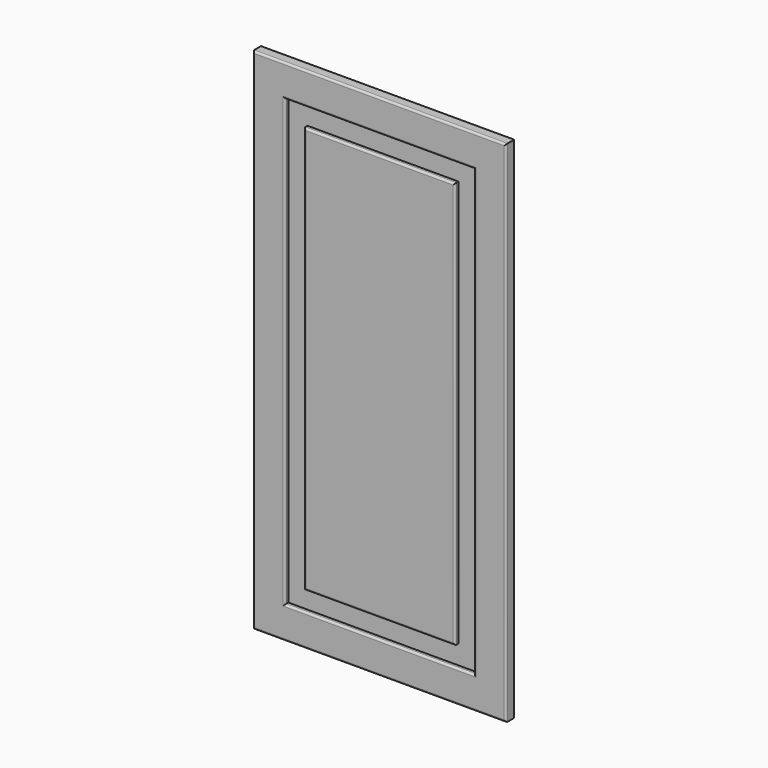
from build123d import *

# Parameters (mm, degrees)
F0_W      = 44.656470418
F0_H      = 33.8078811765
F1_DEPTH  = 16
F2_DEPTH  = 796
F3_DEPTH  = 196
F4_W      = 68.9578056335
F4_H      = 493.6993122101
F5_DEPTH  = 7
F6_DEPTH  = 9.7
F7_DEPTH  = 99.33
F8_DEPTH  = 99.33
F9_DEPTH  = 17.34
F10_DEPTH = 102.97
F11_W     = 35.2807044983
F11_H     = 492.0964837074
F12_DEPTH = 7
F13_DEPTH = 37.27
F14_DEPTH = 6.58
F15_DEPTH = 106.63
F16_DEPTH = 5.87
F17_DEPTH = 200
F18_DEPTH = 200
F19_DEPTH = 200
F20_R     = 3


with BuildPart() as f1:
    # F0 (on Front) → F1 (new body)
    with BuildSketch(Plane.XZ):
        with Locations((22.328235209, 16.9039405882)):
            Rectangle(F0_W, F0_H)
    extrude(amount=F1_DEPTH)

    # F2 (add): a face of the model
    f2_faces = [f1.faces().sort_by_distance(p)[0] for p in [
        (22.328235209, -8, 0),
    ]]
    extrude(f2_faces, amount=-F2_DEPTH)

    # F3 (add): a face of the model
    f3_faces = [f1.faces().sort_by_distance(p)[0] for p in [
        (0, -8, 398),
    ]]
    extrude(f3_faces, amount=-F3_DEPTH)

    # F4 (on face) → F5 (cut)
    with BuildSketch(Plane.XZ.offset(16)):
        with Locations((94.1769480705, 399.8196721077)):
            Rectangle(F4_W, F4_H)
    extrude(amount=-F5_DEPTH, mode=Mode.SUBTRACT)

    # F6 (cut): a face of the model
    f6_faces = [f1.faces().sort_by_distance(p)[0] for p in [
        (59.6980452538, -12.5, 399.8196721077),
    ]]
    extrude(f6_faces, amount=-F6_DEPTH, mode=Mode.SUBTRACT)

    # F7 (add): a face of the model
    f7_faces = [f1.faces().sort_by_distance(p)[0] for p in [
        (89.3269480705, -12.5, 646.6693282127),
    ]]
    extrude(f7_faces, amount=-F7_DEPTH)

    # F8 (cut): a face of the model
    f8_faces = [f1.faces().sort_by_distance(p)[0] for p in [
        (89.3269480705, -12.5, 646.6693282127),
    ]]
    extrude(f8_faces, amount=-F8_DEPTH, mode=Mode.SUBTRACT)

    # F9 (cut): a face of the model
    f9_faces = [f1.faces().sort_by_distance(p)[0] for p in [
        (128.6558508873, -12.5, 449.4846721077),
    ]]
    extrude(f9_faces, amount=-F9_DEPTH, mode=Mode.SUBTRACT)

    # F10 (cut): a face of the model
    f10_faces = [f1.faces().sort_by_distance(p)[0] for p in [
        (97.9969480705, -12.5, 152.9700160027),
    ]]
    extrude(f10_faces, amount=-F10_DEPTH, mode=Mode.SUBTRACT)

    # F11 (on face) → F12 (join)
    with BuildSketch(Plane.XZ.offset(9)):
        with Locations((91.7714834213, 432.6795041561)):
            Rectangle(F11_W, F11_H)
    extrude(amount=F12_DEPTH)

    # F13 (add): a face of the model
    f13_faces = [f1.faces().sort_by_distance(p)[0] for p in [
        (91.7714834213, -12.5, 678.7277460098),
    ]]
    extrude(f13_faces, amount=F13_DEPTH)

    # F14 (add): a face of the model
    f14_faces = [f1.faces().sort_by_distance(p)[0] for p in [
        (109.4118356705, -12.5, 451.3145041561),
    ]]
    extrude(f14_faces, amount=F14_DEPTH)

    # F15 (add): a face of the model
    f15_faces = [f1.faces().sort_by_distance(p)[0] for p in [
        (95.0614834213, -12.5, 186.6312623024),
    ]]
    extrude(f15_faces, amount=F15_DEPTH)

    # F16 (cut): a face of the model
    f16_faces = [f1.faces().sort_by_distance(p)[0] for p in [
        (74.1311311722, -12.5, 397.9995041561),
    ]]
    extrude(f16_faces, amount=-F16_DEPTH, mode=Mode.SUBTRACT)

    # F17 (add): a face of the model
    f17_faces = [f1.faces().sort_by_distance(p)[0] for p in [
        (196, -8, 398),
    ]]
    extrude(f17_faces, amount=F17_DEPTH)

    # F18 (cut): a face of the model
    f18_faces = [f1.faces().sort_by_distance(p)[0] for p in [
        (145.9958508873, -12.5, 397.9996721077),
    ]]
    extrude(f18_faces, amount=-F18_DEPTH, mode=Mode.SUBTRACT)

    # F19 (add): a face of the model
    f19_faces = [f1.faces().sort_by_distance(p)[0] for p in [
        (115.9918356705, -12.5, 397.9995041561),
    ]]
    extrude(f19_faces, amount=F19_DEPTH)

    # F20
    f20_edges = [f1.edges().sort_by_distance(p)[0] for p in [
        (197.996483, -16, 715.997746),
        (80.001131, -16, 397.999504),
        (197.996483, -16, 80.001262),
        (315.991836, -16, 397.999504),
        (0, -16, 398),
        (198, -16, 0),
        (396, -16, 398),
        (198, -16, 796),
        (197.996948, -16, 745.999328),
        (345.995851, -16, 397.999672),
        (197.996948, -16, 50.000016),
        (49.998045, -16, 397.999672),
    ]]
    fillet(f20_edges, radius=F20_R)


solid = f1.part
